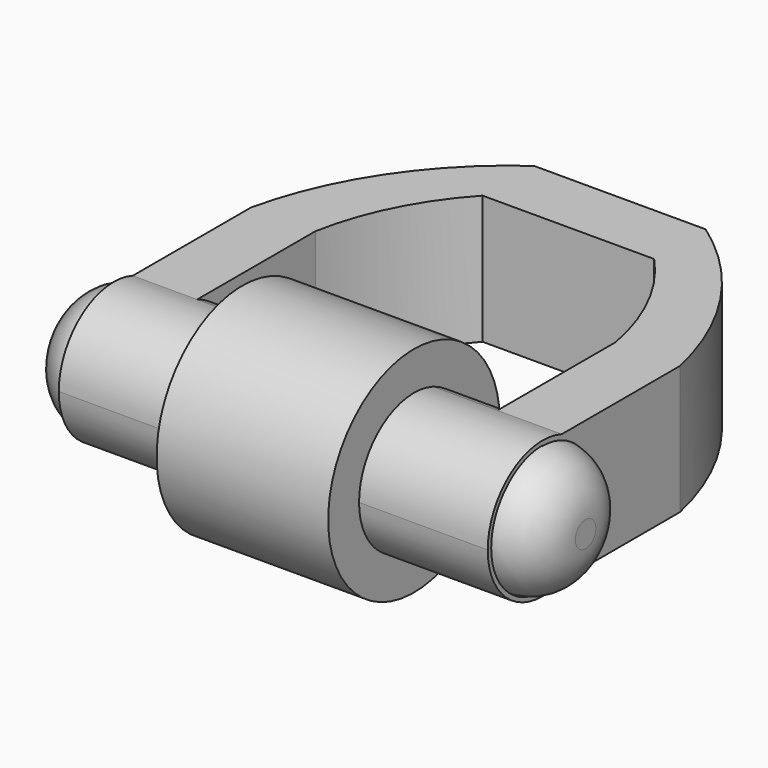
from build123d import *

# Parameters (mm, degrees)
F0_W          = 15
F0_H          = 40
F0_W_2        = 20
F0_H_2        = 15
F1_DEPTH      = 30
F2_R          = 25
F2_R_2        = 15
F3_DEPTH      = 20
F3_DEPTH_BACK = 20
F4_DEPTH      = 60
F4_DEPTH_BACK = 60
F5_R          = 12
F7_DEPTH      = 30


with BuildPart() as f1:
    # F0 (on Top) → F1 (new body)
    with BuildSketch(Plane.XY):
        with Locations((-42.5, 20)):
            Rectangle(F0_W, F0_H)
        with BuildLine():
            ThreePointArc((-35, 40), (-29.638939348, 56.069469674), (-20, 70))
            Line((-20, 70), (-20, 85))
            ThreePointArc((-20, 85), (-39.1974084264, 65.2982722843), (-50, 40))
            Line((-50, 40), (-35, 40))
        make_face()
        with Locations((-10, 77.5)):
            Rectangle(F0_W_2, F0_H_2)
        with Locations((10, 77.5)):
            Rectangle(F0_W_2, F0_H_2)
        with BuildLine():
            ThreePointArc((20, 70), (29.638939348, 56.069469674), (35, 40))
            Line((35, 40), (50, 40))
            ThreePointArc((50, 40), (39.1974084264, 65.2982722843), (20, 85))
            Line((20, 85), (20, 70))
        make_face()
        with Locations((42.5, 20)):
            Rectangle(F0_W, F0_H)
    extrude(amount=F1_DEPTH)



with BuildPart() as f3:
    # F2 (on Right) → F3 (new body, two sides)
    with BuildSketch(Plane.YZ) as f3_sk:
        with Locations((0, 15)):
            Circle(F2_R)
        with Locations((0, 15)):
            Circle(F2_R_2, mode=Mode.SUBTRACT)
    extrude(amount=F3_DEPTH)
    extrude(f3_sk.sketch, amount=-F3_DEPTH_BACK)


with BuildPart() as f4:
    # F2 (on Right) → F4 (new body, two sides)
    with BuildSketch(Plane.YZ) as f4_sk:
        with Locations((0, 15)):
            Circle(F2_R_2)
    extrude(amount=F4_DEPTH)
    extrude(f4_sk.sketch, amount=-F4_DEPTH_BACK)

    # F5
    f5_edges = [f4.edges().sort_by_distance(p)[0] for p in [
        (-60, -15, 15),
        (60, -15, 15),
    ]]
    fillet(f5_edges, radius=F5_R)


with BuildPart() as f1_1:
    add(f1.part)

    add(f3.part)  # F7 merges F3

    add(f4.part)  # F7 merges F4
    # F6 (on face) → F7 (join)
    with BuildSketch(Plane(origin=(-50, 0, 0), x_dir=(0, -1, 0), z_dir=(-1, 0, 0))):
        with BuildLine():
            ThreePointArc((0, 0), (-15, 15), (0, 30))
            Line((0, 30), (-5.5677643628, 30))
            ThreePointArc((-5.5677643628, 30), (-16, 15), (-5.5677643628, 0))
            Line((-5.5677643628, 0), (0, 0))
        make_face()
        with BuildLine():
            Line((-5.5677643628, 30), (0, 30))
            ThreePointArc((0, 30), (10.6066017178, 25.6066017178), (15, 15))
            ThreePointArc((15, 15), (10.6066017178, 4.3933982822), (0, 0))
            Line((0, 0), (-5.5677643628, 0))
            ThreePointArc((-5.5677643628, 0), (9.1355287257, 1.8644712743), (16, 15))
            ThreePointArc((16, 15), (9.1355287257, 28.1355287257), (-5.5677643628, 30))
        make_face()
    extrude(amount=-F7_DEPTH)

    # F8: F1 across plane


with BuildPart() as f1_2:
    add(f1_1.part)
    add(f1_1.part.mirror(Plane.YZ))


solid = f1_2.part
